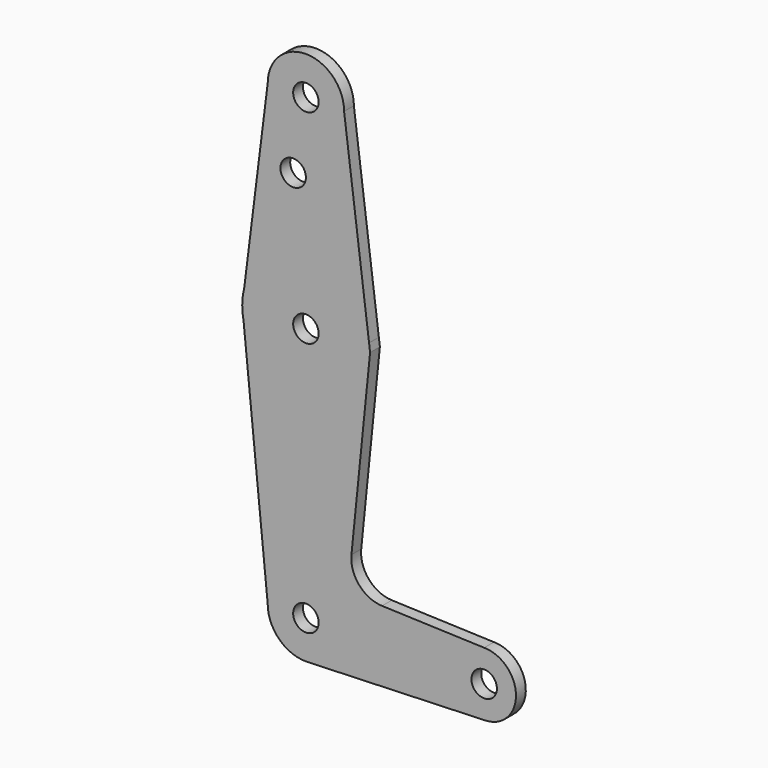
from build123d import *

# Parameters (mm, degrees)
F0_R     = 3.175
F1_DEPTH = 3.048


with BuildPart() as f1:
    # F0 (on Front) → F1 (new body)
    with BuildSketch(Plane.XZ):
        with BuildLine():
            ThreePointArc((-15.5606435644, 60.3564356436), (1.5796215395, 47.7037846054), (15.875, 63.5))
            ThreePointArc((15.875, 63.5), (15.8430821358, 64.5061676981), (15.7474568899, 65.5082894468))
            ThreePointArc((15.7474568899, 65.5082894468), (0.9666945407, 79.3455396457), (-15.3865384615, 67.4076923077))
            Line((-15.3865384615, 67.4076923077), (-15.875, 63.5))
            Line((-15.875, 63.5), (-15.5606435644, 60.3564356436))
        make_face()
        with Locations((0, 63.5)):
            Circle(F0_R, mode=Mode.SUBTRACT)
        with BuildLine():
            ThreePointArc((15.7474568899, 65.5082894468), (15.8430821358, 64.5061676981), (15.875, 63.5))
            ThreePointArc((15.875, 63.5), (1.5796215395, 47.7037846054), (-15.5606435644, 60.3564356436))
            Line((-15.5606435644, 60.3564356436), (-9.525, 0))
            ThreePointArc((-9.525, 0), (0, 9.525), (9.525, 0))
            ThreePointArc((9.525, 0), (6.9705567315, -6.4912990883), (0.6773435479, -9.500885786))
            Line((0.6773435479, -9.500885786), (44.7324052746, -7.9324746146))
            ThreePointArc((44.7324052746, -7.9324746146), (36.5137564458, -0.1412249921), (44.45, 7.9375))
            Line((44.45, 7.9375), (18.9811494167, 8.8471018065))
            ThreePointArc((18.9811494167, 8.8471018065), (13.272677541, 11.5674014995), (11.3551507211, 17.5931605777))
            Line((11.3551507211, 17.5931605777), (16.0035761028, 63.5))
            Line((16.0035761028, 63.5), (15.7474568899, 65.5082894468))
        make_face()
        with BuildLine():
            ThreePointArc((-15.3865384615, 67.4076923077), (0.9666945407, 79.3455396457), (15.7474568899, 65.5082894468))
            Line((15.7474568899, 65.5082894468), (9.525, 114.3))
            ThreePointArc((9.525, 114.3), (0, 104.775), (-9.525, 114.3))
            Line((-9.525, 114.3), (-15.3865384615, 67.4076923077))
        make_face()
        with Locations((-3.175, 96.6987230935)):
            Circle(F0_R, mode=Mode.SUBTRACT)
        with BuildLine():
            ThreePointArc((-15.875, 63.5), (-15.7962153946, 61.9203784605), (-15.5606435644, 60.3564356436))
            Line((-15.5606435644, 60.3564356436), (-15.875, 63.5))
        make_face()
        with BuildLine():
            Line((-15.875, 63.5), (-15.3865384615, 67.4076923077))
            ThreePointArc((-15.3865384615, 67.4076923077), (-15.7524112928, 65.4690514116), (-15.875, 63.5))
        make_face()
        with BuildLine():
            ThreePointArc((-9.525, 114.3), (0, 104.775), (9.525, 114.3))
            ThreePointArc((9.525, 114.3), (0, 123.825), (-9.525, 114.3))
        make_face()
        with Locations((0, 114.3)):
            Circle(F0_R, mode=Mode.SUBTRACT)
        with BuildLine():
            ThreePointArc((9.525, 0), (0, 9.525), (-9.525, 0))
            ThreePointArc((-9.525, 0), (-6.7351920908, -6.7351920908), (0, -9.525))
            Line((0, -9.525), (0.6773435479, -9.500885786))
            ThreePointArc((0.6773435479, -9.500885786), (6.9705567315, -6.4912990883), (9.525, 0))
        make_face()
        Circle(F0_R, mode=Mode.SUBTRACT)
        with BuildLine():
            Line((0.6773435479, -9.500885786), (0, -9.525))
            ThreePointArc((0, -9.525), (0.3388863295, -9.5189695375), (0.6773435479, -9.500885786))
        make_face()
        with BuildLine():
            ThreePointArc((52.3875, 0), (50.0626600757, 5.6126600757), (44.45, 7.9375))
            ThreePointArc((44.45, 7.9375), (36.5137564458, -0.1412249921), (44.7324052746, -7.9324746146))
            ThreePointArc((44.7324052746, -7.9324746146), (50.1616327839, -5.5119104847), (52.3875, 0))
        make_face()
        with Locations((44.45, 0)):
            Circle(F0_R, mode=Mode.SUBTRACT)
    extrude(amount=F1_DEPTH)


solid = f1.part
